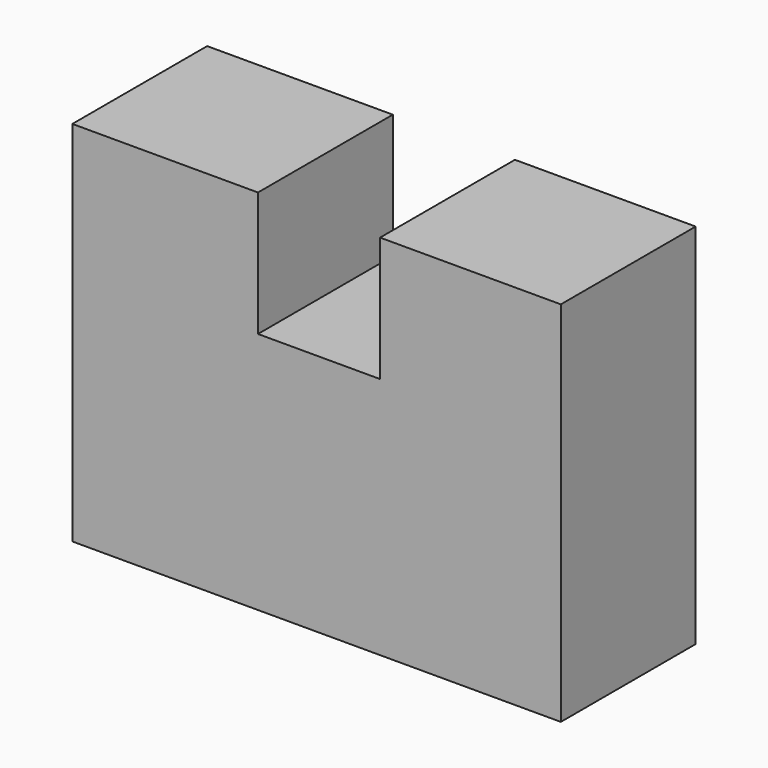
from build123d import *

# Parameters (mm, degrees)
F1_DEPTH    = 35.052
F1_FACE_W   = 38.608
F1_FACE_H   = 35.052
F1_FACE_W_2 = 37.592001
F2_DEPTH    = 1.016
F4_DEPTH    = 91.948


with BuildPart() as f1:
    # F0 (on Front) → F1 (new body)
    with BuildSketch(Plane.XZ):
        Polygon((0, 76.453999), (0, 0), (101.600006, 0), (101.600006, 76.453999), (64.008005, 76.453999), (64.008005, 50.546002), (38.608, 50.546002), (38.608, 76.453999), align=None)
    extrude(amount=F1_DEPTH)

    # F1_face (on face) → F2 (join)
    with BuildSketch(Plane(origin=(19.304, -17.526, 76.453999), x_dir=(1, 0, 0), z_dir=(0, 0, 1))):
        Rectangle(F1_FACE_W, F1_FACE_H)
        with Locations((63.500005, 0)):
            Rectangle(F1_FACE_W_2, F1_FACE_H)
    extrude(amount=-F2_DEPTH)


with BuildPart() as f4:
    # F3 (on face) → F4 (new body)
    with BuildSketch(Plane.XY.offset(76.453999)):
        Polygon((354.056151, 0), (354.056151, -101.6), (444.539875, -101.6), (444.539875, -47.334887), (531.121194, -47.334887), (522.471368, 0), (468.59476, 0), align=None)
    extrude(amount=-F4_DEPTH)


solid = f1.part
